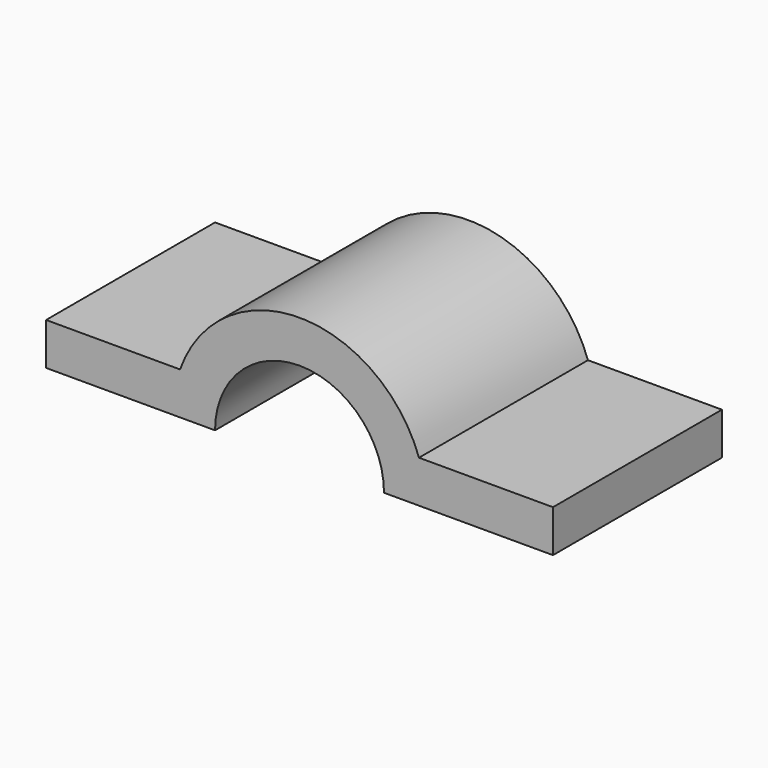
from build123d import *

# Parameters (mm, degrees)
F1_DEPTH = 75


with BuildPart() as f1:
    # F0 (on Front) → F1 (new body)
    with BuildSketch(Plane.XZ):
        with BuildLine():
            Line((0, 15), (0, 0))
            Line((0, 0), (60, 0))
            ThreePointArc((60, 0), (90, 30), (120, 0))
            Line((120, 0), (180, 0))
            Line((180, 0), (180, 15))
            Line((180, 15), (132.426407, 15))
            ThreePointArc((132.426407, 15), (90, 45), (47.573593, 15))
            Line((47.573593, 15), (0, 15))
        make_face()
    extrude(amount=F1_DEPTH)


solid = f1.part
